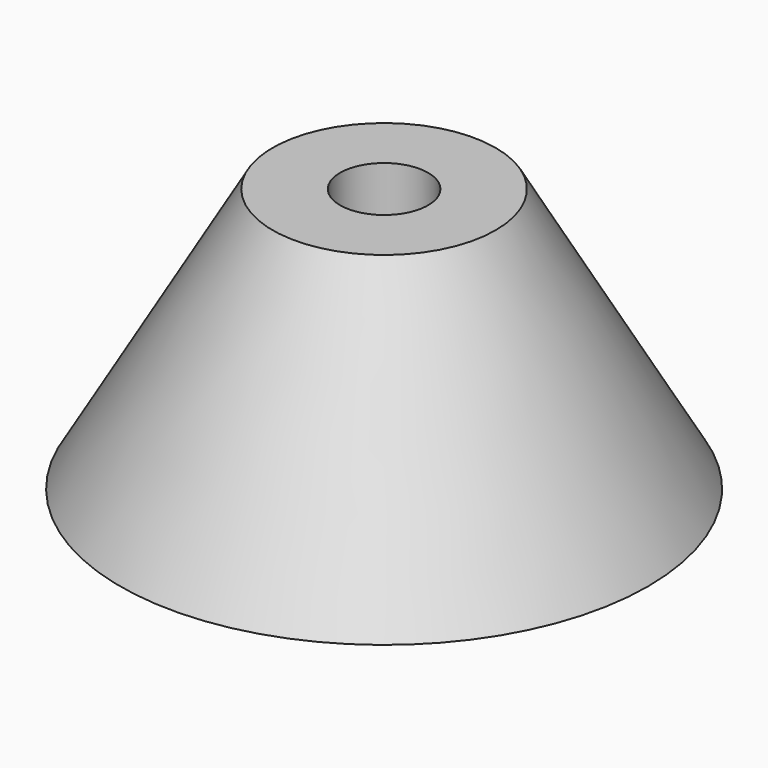
from build123d import *

# Parameters (mm, degrees)
F0_R     = 30
F1_DEPTH = 30
F1_TAPER = 30
F2_D     = 10


with BuildPart() as f1:
    # F0 (on Top) → F1 (new body)
    with BuildSketch(Plane.XY):
        with Locations((-26.0355547071, 17.9413259029)):
            Circle(F0_R)
    extrude(amount=F1_DEPTH, taper=F1_TAPER)

    # F2 (through all)
    with Locations(Plane(origin=(0, 0, 0), x_dir=(1, 0, 0), z_dir=(0, 0, -1))):
        with Locations((-26.0355547071, -17.9413259029)):
            Hole(F2_D / 2)


solid = f1.part
